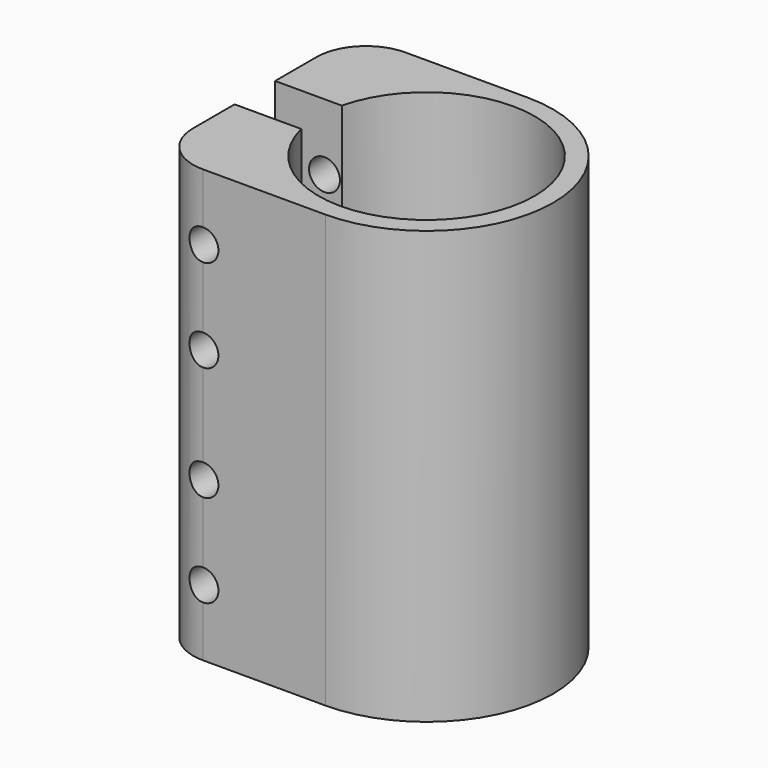
from build123d import *

# Parameters (mm, degrees)
F1_DEPTH       = 35
F3_D           = 5
F3_START       = 1.7550021
F3_CBORE_D     = 10
F3_CBORE_DEPTH = 8
F4_W           = 22.4
F4_H           = 2
F5_DEPTH       = 25


with BuildPart() as f1:
    # F0 (on Top) → F1 (new body, symmetric)
    with BuildSketch(Plane.XY):
        with BuildLine():
            ThreePointArc((-17.0129362545, 4.1), (17.5, 0), (-17.0129362545, -4.1))
            Line((-17.0129362545, -4.1), (-27.8129362545, -4.1))
            Line((-27.8129362545, -4.1), (-27.8129362545, -12.5))
            ThreePointArc((-27.8129362545, -12.5), (-25.469790504, -18.1568542495), (-19.8129362545, -20.5))
            Line((-19.8129362545, -20.5), (0, -20.5))
            ThreePointArc((0, -20.5), (20.5, 0), (0, 20.5))
            Line((0, 20.5), (-19.8129362545, 20.5))
            ThreePointArc((-19.8129362545, 20.5), (-25.469790504, 18.1568542495), (-27.8129362545, 12.5))
            Line((-27.8129362545, 12.5), (-27.8129362545, 4.1))
            Line((-27.8129362545, 4.1), (-17.0129362545, 4.1))
        make_face()
        with BuildLine():
            ThreePointArc((-17.0129362545, 4.1), (17.5, 0), (-17.0129362545, -4.1))
            Line((-17.0129362545, -4.1), (-27.8129362545, -4.1))
            Line((-27.8129362545, -4.1), (-27.8129362545, -12.5))
            ThreePointArc((-27.8129362545, -12.5), (-25.469790504, -18.1568542495), (-19.8129362545, -20.5))
            Line((-19.8129362545, -20.5), (0, -20.5))
            ThreePointArc((0, -20.5), (20.5, 0), (0, 20.5))
            Line((0, 20.5), (-19.8129362545, 20.5))
            ThreePointArc((-19.8129362545, 20.5), (-25.469790504, 18.1568542495), (-27.8129362545, 12.5))
            Line((-27.8129362545, 12.5), (-27.8129362545, 4.1))
            Line((-27.8129362545, 4.1), (-17.0129362545, 4.1))
        make_face()
    extrude(amount=F1_DEPTH, both=True)

    # F3 (through all)
    # its depths count from where the whole tool has entered the part; down to there all is cleared
    with Locations(Plane(origin=(0, 20.5, 0), x_dir=(-1, 0, 0), z_dir=(0, 1, 0)).offset(-F3_START)):
        with Locations((19.8129362545, -24.25), (19.8129362545, -9.25), (19.8129362545, 9.25), (19.8129362545, 24.25)):
            CounterBoreHole(F3_D / 2, F3_CBORE_D / 2, F3_CBORE_DEPTH)

    # F4 (on Front) → F5 (cut)
    with BuildSketch(Plane.XZ):
        with Locations((-16.6129362545, 0)):
            Rectangle(F4_W, F4_H)
    extrude(amount=-F5_DEPTH, mode=Mode.SUBTRACT)


solid = f1.part
